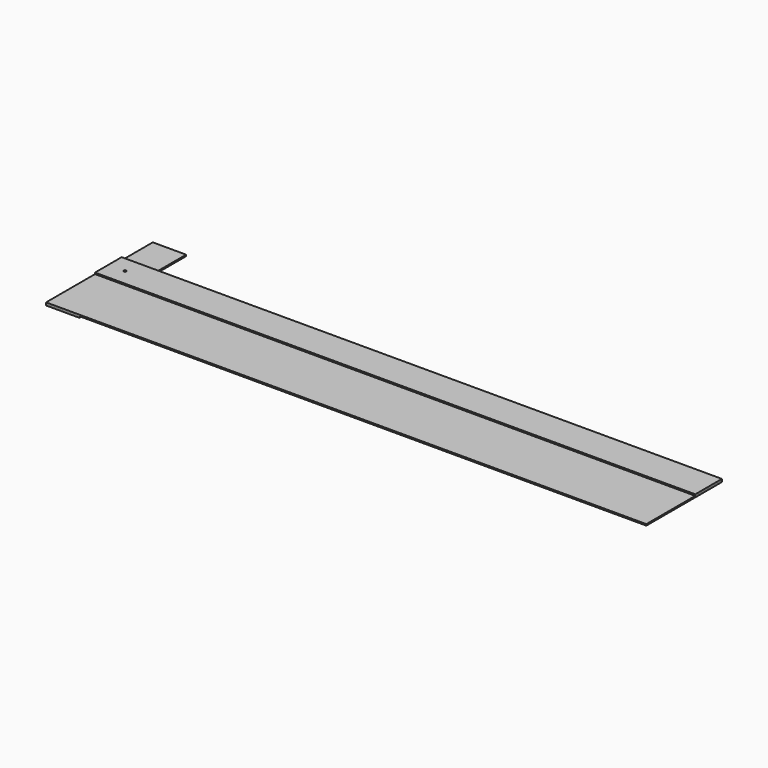
from build123d import *

# Parameters (mm, degrees)
F0_W     = 1371.6
F0_H     = 215.9
F1_DEPTH = 3.175
F2_W     = 1371.6
F2_H     = 76.2
F3_DEPTH = 3.175
F4_W     = 76.2
F4_H     = 304.8
F5_DEPTH = 3.175
F6_R     = 3.175
F8_DEPTH = 9.526


with BuildPart() as f1:
    # F0 (on Top) → F1 (new body)
    with BuildSketch(Plane.XY):
        Rectangle(F0_W, F0_H)
    extrude(amount=F1_DEPTH)


with BuildPart() as f3:
    # F2 (on face) → F3 (new body)
    with BuildSketch(Plane.XY.offset(3.175)):
        with Locations((0, 69.85)):
            Rectangle(F2_W, F2_H)
    extrude(amount=F3_DEPTH)


with BuildPart() as f5:
    # F4 (on face) → F5 (new body)
    with BuildSketch(Plane(origin=(0, 0, 0), x_dir=(1, 0, 0), z_dir=(0, 0, -1))):
        with Locations((-647.7, -44.45)):
            Rectangle(F4_W, F4_H)
    extrude(amount=F5_DEPTH)


with BuildPart() as f8_tool:
    # F6 (on face) → F8 (new body, through all)
    with BuildSketch(Plane.XY.offset(6.35)):
        with Locations((-647.7, 69.85)):
            Circle(F6_R)
    extrude(amount=-F8_DEPTH)


with BuildPart() as f1_1:
    add(f1.part)

    # F8: cut by f8_tool
    add(f8_tool.part, mode=Mode.SUBTRACT)


with BuildPart() as f3_1:
    add(f3.part)

    # F8: cut by f8_tool
    add(f8_tool.part, mode=Mode.SUBTRACT)


with BuildPart() as f5_1:
    add(f5.part)

    # F8: cut by f8_tool
    add(f8_tool.part, mode=Mode.SUBTRACT)


solid = Compound([f1_1.part, f3_1.part, f5_1.part])
